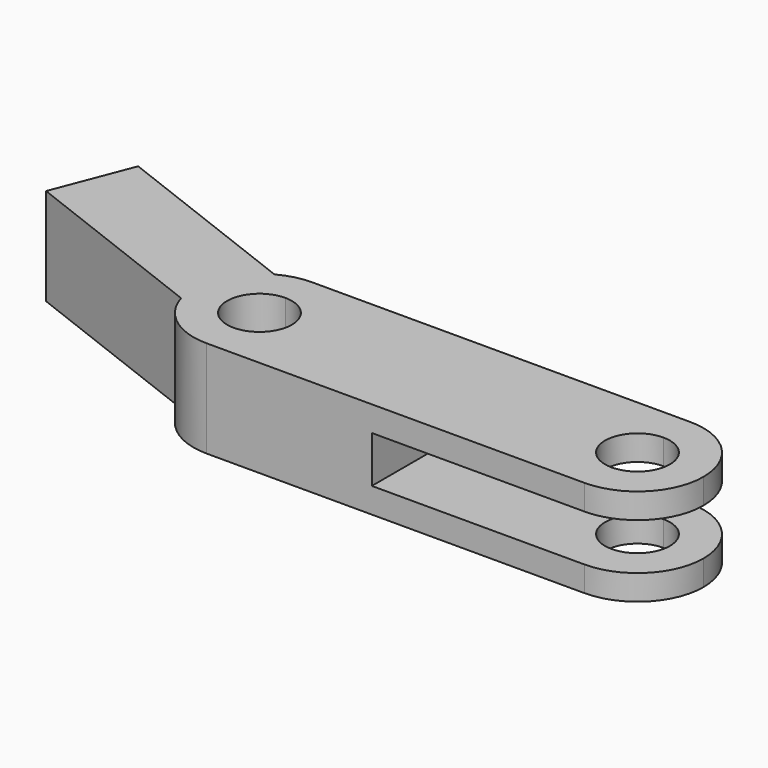
from build123d import *

# Parameters (mm, degrees)
F1_DEPTH = 7.5
F2_W     = 28.4275773028
F2_H     = 3.6
F3_DEPTH = 10.201
F5_DEPTH = 7.5


with BuildPart() as f1:
    # F0 (on Top) → F1 (new body)
    with BuildSketch(Plane.XY):
        with BuildLine():
            ThreePointArc((0, 10.2), (-5.1, 5.1), (0, 0))
            Line((0, 0), (0, 2.6))
            ThreePointArc((0, 2.6), (-2.5, 5.1), (0, 7.6))
            Line((0, 7.6), (0, 10.2))
        make_face()
        with BuildLine():
            Line((-29.2, 0), (0, 0))
            ThreePointArc((0, 0), (-5.1, 5.1), (0, 10.2))
            Line((0, 10.2), (-29.2, 10.2))
            ThreePointArc((-29.2, 10.2), (-25.5937554159, 8.7062445841), (-24.1, 5.1))
            ThreePointArc((-24.1, 5.1), (-25.5937554159, 1.4937554159), (-29.2, 0))
        make_face()
        with BuildLine():
            Line((0, 2.6), (0, 0))
            ThreePointArc((0, 0), (3.6062445841, 1.4937554159), (5.1, 5.1))
            ThreePointArc((5.1, 5.1), (3.6062445841, 8.7062445841), (0, 10.2))
            Line((0, 10.2), (0, 7.6))
            ThreePointArc((0, 7.6), (1.767766953, 6.867766953), (2.5, 5.1))
            ThreePointArc((2.5, 5.1), (1.767766953, 3.332233047), (0, 2.6))
        make_face()
        with BuildLine():
            ThreePointArc((-29.2, 10.2), (-34.3, 5.1), (-29.2, 0))
            Line((-29.2, 0), (-29.2, 2.6))
            ThreePointArc((-29.2, 2.6), (-31.7, 5.1), (-29.2, 7.6))
            Line((-29.2, 7.6), (-29.2, 10.2))
        make_face()
        with BuildLine():
            Line((-29.2, 2.6), (-29.2, 0))
            ThreePointArc((-29.2, 0), (-25.5937554159, 1.4937554159), (-24.1, 5.1))
            ThreePointArc((-24.1, 5.1), (-25.5937554159, 8.7062445841), (-29.2, 10.2))
            Line((-29.2, 10.2), (-29.2, 7.6))
            ThreePointArc((-29.2, 7.6), (-27.432233047, 6.867766953), (-26.7, 5.1))
            ThreePointArc((-26.7, 5.1), (-27.432233047, 3.332233047), (-29.2, 2.6))
        make_face()
    extrude(amount=F1_DEPTH)

    # F2 (on face) → F3 (cut, through all)
    with BuildSketch(Plane.XZ):
        with Locations((-2.2280919366, 3.75)):
            Rectangle(F2_W, F2_H)
    extrude(amount=-F3_DEPTH, mode=Mode.SUBTRACT)

    # F4 (on face) → F5 (join)
    with BuildSketch(Plane.XY.offset(7.5)):
        with BuildLine():
            ThreePointArc((-34.0871795985, 3.6420989157), (-33.913058879, 7.0486087353), (-31.6307227456, 9.5834793335))
            Line((-31.6307227456, 9.5834793335), (-46.8735157819, 15.4770560035))
            Line((-46.8735157819, 15.4770560035), (-49.1914411807, 9.4821128467))
            Line((-49.1914411807, 9.4821128467), (-34.0871795985, 3.6420989157))
        make_face()
    extrude(amount=-F5_DEPTH)


solid = f1.part
